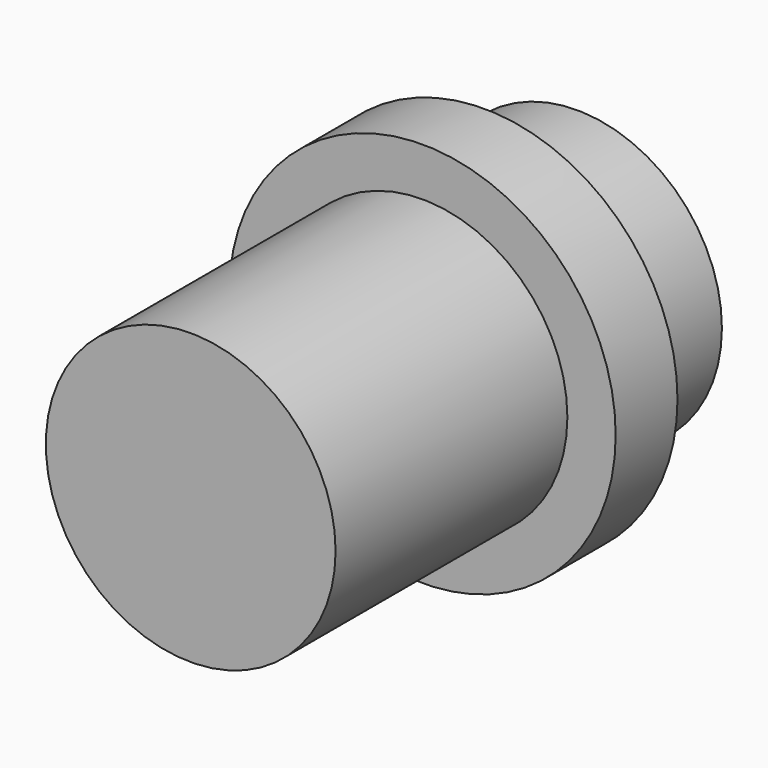
from build123d import *

# Parameters (mm, degrees)
F0_R          = 4.7625
F1_DEPTH      = 9.525
F1_DEPTH_BACK = 6.35
F2_R          = 6.35
F3_DEPTH      = 2.54


with BuildPart() as f1:
    # F0 (on Front) → F1 (new body, two sides)
    with BuildSketch(Plane.XZ) as f1_sk:
        Circle(F0_R)
    extrude(amount=F1_DEPTH)
    extrude(f1_sk.sketch, amount=-F1_DEPTH_BACK)

    # F2 (on Front) → F3 (join)
    with BuildSketch(Plane.XZ):
        Circle(F2_R)
    extrude(amount=-F3_DEPTH)


solid = f1.part
